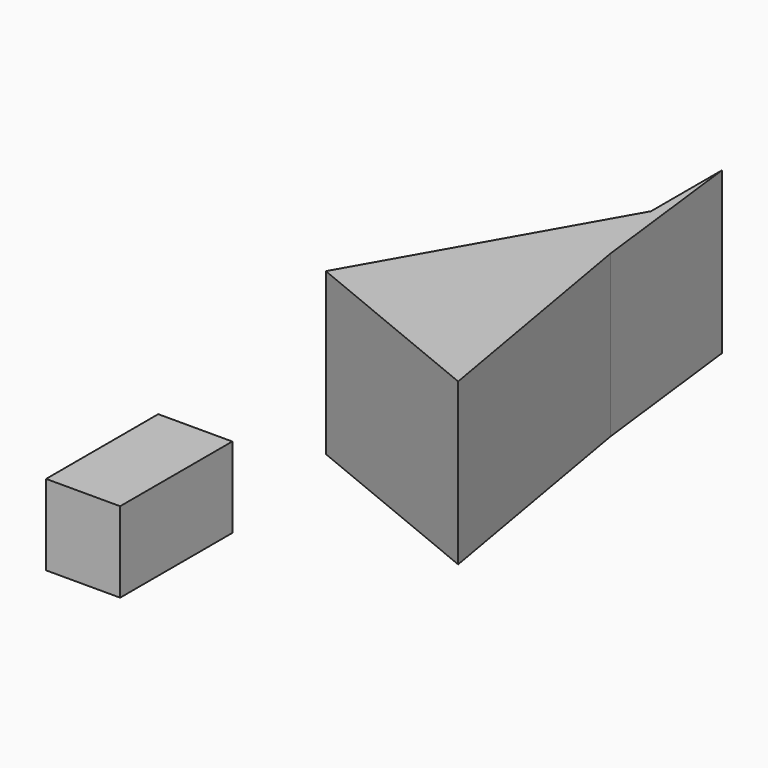
from build123d import *

# Parameters (mm, degrees)
F0_W     = 22.984668
F0_H     = 43.51896
F1_DEPTH = 12.5
F3_DEPTH = 50


with BuildPart() as f1:
    # F0 (on Top) → F1 (new body, symmetric)
    with BuildSketch(Plane.XY):
        with Locations((-48.419036, 47.676176)):
            Rectangle(F0_W, F0_H)
    extrude(amount=F1_DEPTH, both=True)


with BuildPart() as f3:
    # F2 (on Top) → F3 (new body)
    with BuildSketch(Plane.XY):
        Polygon((31.140814, 71.996115), (18.010728, 147.522494), (11.817383, 198.498666), (11.817383, 170.967996), (-30.083325, 97.184688), align=None)
    extrude(amount=F3_DEPTH)


solid = Compound([f1.part, f3.part])
